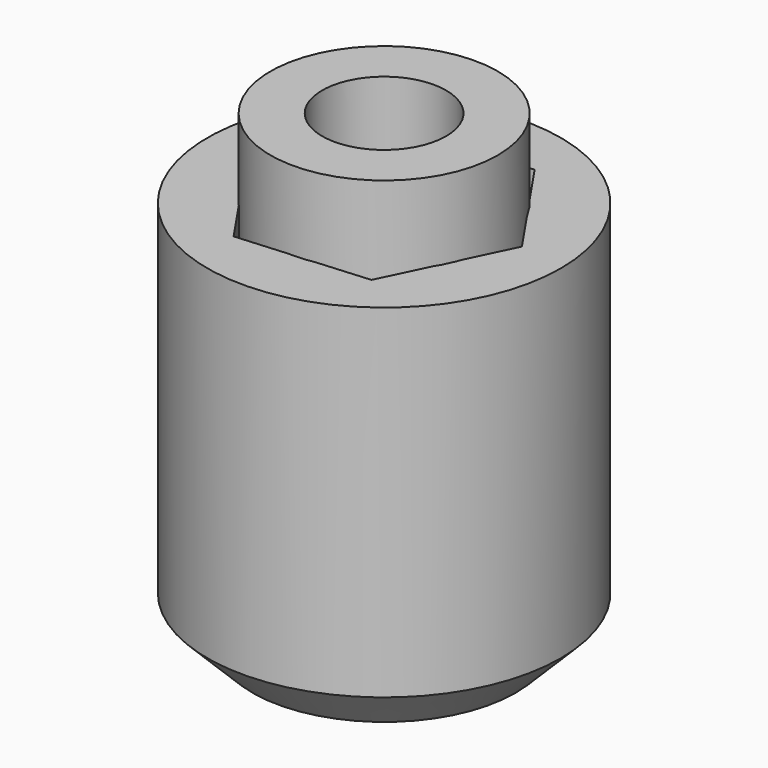
from build123d import *

# Parameters (mm, degrees)
F0_R     = 19.883694
F1_DEPTH = 21.844
F2_SIZE  = 5.08
F4_R     = 12.788511
F5_DEPTH = 30.734
F3_R     = 6.975126
F6_DEPTH = 48.768


with BuildPart() as f1:
    # F0 (on Top) → F1 (new body, symmetric)
    with BuildSketch(Plane.XY):
        Circle(F0_R)
        Polygon((6.357119, 13.215157), (10.49017, 7.158654), (14.623221, 1.102152), (11.444662, -5.505427), (8.266102, -12.113005), (0.954491, -12.664081), (-6.357119, -13.215157), (-10.49017, -7.158654), (-14.623221, -1.102152), (-11.444662, 5.505427), (-8.266102, 12.113005), (-0.954491, 12.664081), align=None, mode=Mode.SUBTRACT)
    extrude(amount=F1_DEPTH, both=True)

    # F2
    f2_edges = [f1.edges().sort_by_distance(p)[0] for p in [
        (-19.883694, 0, -21.844),
    ]]
    chamfer(f2_edges, length=F2_SIZE)


with BuildPart() as f5:
    # F4 (on face) → F5 (new body)
    with BuildSketch(Plane.XY):
        Circle(F4_R)
    extrude(amount=F5_DEPTH)

    # F3 (on face) → F6 (cut)
    with BuildSketch(Plane.XY):
        Circle(F3_R)
    extrude(amount=F6_DEPTH, mode=Mode.SUBTRACT)


solid = Compound([f1.part, f5.part])
